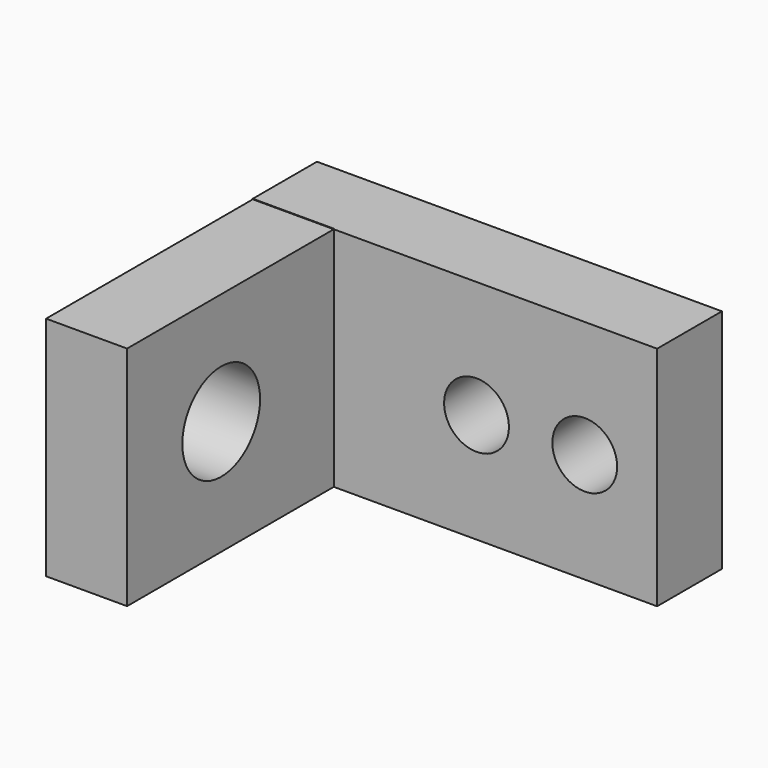
from build123d import *

# Parameters (mm, degrees)
F0_W     = 5
F0_H     = 15.950239
F1_DEPTH = 14
F2_R     = 3
F3_DEPTH = 9.3
F4_R     = 2
F5_DEPTH = 25


with BuildPart() as f1:
    # F0 (on Top) → F1 (new body)
    with BuildSketch(Plane.XY):
        Polygon((0, 15.909543), (0, 15.959304), (5, 15.959304), (5, 15.909543), (24.959307, 15.909543), (24.959307, 20.909543), (-0.040693, 20.909543), (-0.040693, 15.909543), align=None)
        with Locations((2.5, 7.934423)):
            Rectangle(F0_W, F0_H)
    extrude(amount=F1_DEPTH)

    # F2 (on Right) → F3 (cut)
    with BuildSketch(Plane.YZ):
        with Locations((7.221185, 7.080455)):
            Circle(F2_R)
    extrude(amount=F3_DEPTH, mode=Mode.SUBTRACT)

    # F4 (on Front) → F5 (cut)
    with BuildSketch(Plane.XZ):
        with Locations((13.81083, 6.767617)):
            Circle(F4_R)
        with Locations((20.491616, 6.784157)):
            Circle(F4_R)
    extrude(amount=-F5_DEPTH, mode=Mode.SUBTRACT)


solid = f1.part
